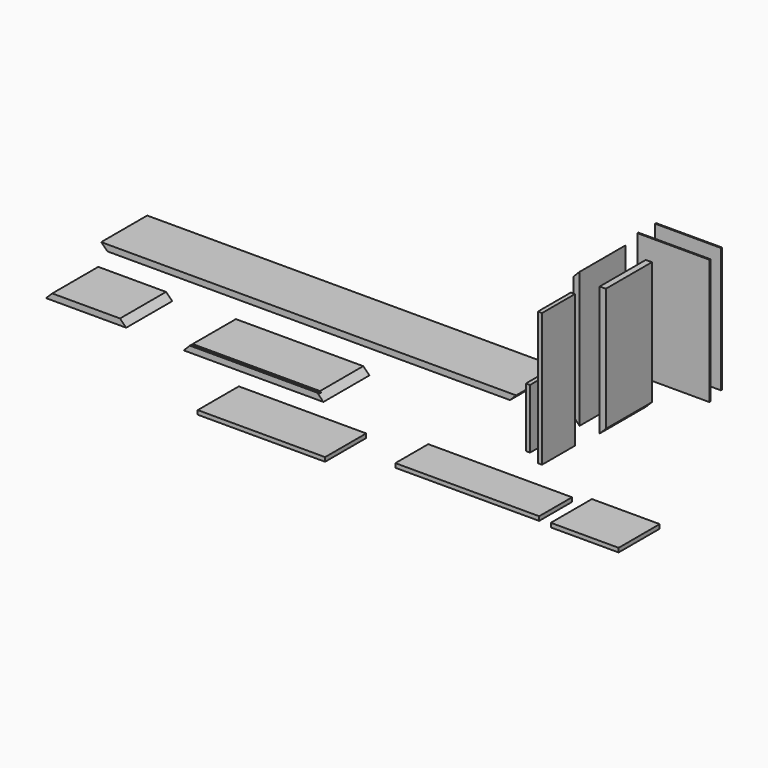
from build123d import *

# Parameters (mm, degrees)
F0_W      = 2020
F0_H      = 280
F1_DEPTH  = 30
F2_W      = 30
F2_H      = 280
F3_DEPTH  = 660
F5_DEPTH  = 380
F7_DEPTH  = 380
F8_W      = 680
F8_H      = 280
F9_DEPTH  = 30
F10_W     = 20
F10_H     = 250
F11_DEPTH = 290
F12_W     = 30
F12_H     = 280
F13_DEPTH = 630
F15_DEPTH = 380
F17_DEPTH = 380
F18_W     = 390
F18_H     = 280
F19_DEPTH = 30
F21_DEPTH = 380
F22_W     = 760
F22_H     = 12
F23_DEPTH = 5
F24_W     = 350
F24_H     = 6
F25_DEPTH = 610
F26_W     = 620
F26_H     = 250
F27_DEPTH = 20
F28_W     = 20
F28_H     = 200
F29_DEPTH = 650
F30_W     = 700
F30_H     = 200
F31_DEPTH = 20
F32_W     = 330
F32_H     = 250
F33_DEPTH = 20
F34_W     = 320
F34_H     = 6
F35_DEPTH = 610


with BuildPart() as f1:
    # F0 (on Top) → F1 (new body)
    with BuildSketch(Plane.XY):
        with Locations((-1110, 140)):
            Rectangle(F0_W, F0_H)
    extrude(amount=F1_DEPTH)

    # F4 (on face) → F5 (cut)
    with BuildSketch(Plane.XZ):
        Polygon((-2090, 0), (-2120, 30), (-2120, 0), align=None)
        Polygon((-100, 0), (-100, 30), (-130, 0), align=None)
    extrude(amount=-F5_DEPTH, mode=Mode.SUBTRACT)


with BuildPart() as f3:
    # F2 (on Top) → F3 (new body)
    with BuildSketch(Plane.XY):
        with Locations((193.972067, 140)):
            Rectangle(F2_W, F2_H)
    extrude(amount=F3_DEPTH)

    # F6 (on face) → F7 (cut)
    with BuildSketch(Plane.XZ):
        Polygon((178.972067, 630), (208.972067, 660), (178.972067, 660), align=None)
        Polygon((178.972067, 0), (208.972067, 0), (178.972067, 30), align=None)
    extrude(amount=-F7_DEPTH, mode=Mode.SUBTRACT)


with BuildPart() as f9:
    # F8 (on Top) → F9 (new body)
    with BuildSketch(Plane.XY):
        with Locations((-1014.235584, -315.075242)):
            Rectangle(F8_W, F8_H)
    extrude(amount=F9_DEPTH)

    # F16 (on face) → F17 (cut)
    with BuildSketch(Plane.XZ.offset(455.075242)):
        Polygon((-1324.235584, 30), (-1354.235584, 30), (-1354.235584, 0), align=None)
        Polygon((-674.235584, 0), (-674.235584, 30), (-704.235584, 30), align=None)
    extrude(amount=-F17_DEPTH, mode=Mode.SUBTRACT)

    # F22 (on face) → F23 (cut)
    with BuildSketch(Plane.XY.offset(30)):
        with Locations((-1054.235584, -444.075242)):
            Rectangle(F22_W, F22_H)
    extrude(amount=-F23_DEPTH, mode=Mode.SUBTRACT)


with BuildPart() as f11:
    # F10 (on Top) → F11 (new body)
    with BuildSketch(Plane.XY):
        with Locations((189.676665, -165)):
            Rectangle(F10_W, F10_H)
    extrude(amount=F11_DEPTH)


with BuildPart() as f13:
    # F12 (on Top) → F13 (new body)
    with BuildSketch(Plane.XY):
        with Locations((323.007107, 138.644105)):
            Rectangle(F12_W, F12_H)
    extrude(amount=F13_DEPTH)

    # F14 (on face) → F15 (cut)
    with BuildSketch(Plane.XZ.offset(1.355895)):
        Polygon((338.007107, 30), (308.007107, 0), (338.007107, 0), align=None)
    extrude(amount=-F15_DEPTH, mode=Mode.SUBTRACT)


with BuildPart() as f19:
    # F18 (on Top) → F19 (new body)
    with BuildSketch(Plane.XY):
        with Locations((-1836.277942, -306.116726)):
            Rectangle(F18_W, F18_H)
    extrude(amount=F19_DEPTH)

    # F20 (on face) → F21 (cut)
    with BuildSketch(Plane.XZ.offset(446.116726)):
        Polygon((-2031.277942, 30), (-2031.277942, 0), (-2001.277942, 30), align=None)
        Polygon((-1671.277942, 30), (-1641.277942, 0), (-1641.277942, 30), align=None)
    extrude(amount=-F21_DEPTH, mode=Mode.SUBTRACT)


with BuildPart() as f25:
    # F24 (on Top) → F25 (new body)
    with BuildSketch(Plane.XY):
        with Locations((297.053664, 463.615045)):
            Rectangle(F24_W, F24_H)
    extrude(amount=F25_DEPTH)


with BuildPart() as f27:
    # F26 (on Top) → F27 (new body)
    with BuildSketch(Plane.XY):
        with Locations((-671.562884, -710.54064)):
            Rectangle(F26_W, F26_H)
    extrude(amount=F27_DEPTH)


with BuildPart() as f29:
    # F28 (on Top) → F29 (new body)
    with BuildSketch(Plane.XY):
        with Locations((287.467837, -239.435571)):
            Rectangle(F28_W, F28_H)
    extrude(amount=F29_DEPTH)


with BuildPart() as f31:
    # F30 (on Top) → F31 (new body)
    with BuildSketch(Plane.XY):
        with Locations((227.819499, -607.203731)):
            Rectangle(F30_W, F30_H)
    extrude(amount=F31_DEPTH)


with BuildPart() as f33:
    # F32 (on Top) → F33 (new body)
    with BuildSketch(Plane.XY):
        with Locations((810.984224, -596.480411)):
            Rectangle(F32_W, F32_H)
    extrude(amount=F33_DEPTH)


with BuildPart() as f35:
    # F34 (on Top) → F35 (new body)
    with BuildSketch(Plane.XY):
        with Locations((286.014318, 566.526479)):
            Rectangle(F34_W, F34_H)
    extrude(amount=F35_DEPTH)


solid = Compound([f1.part, f3.part, f9.part, f11.part, f13.part, f19.part, f25.part, f27.part, f29.part, f31.part, f33.part, f35.part])
